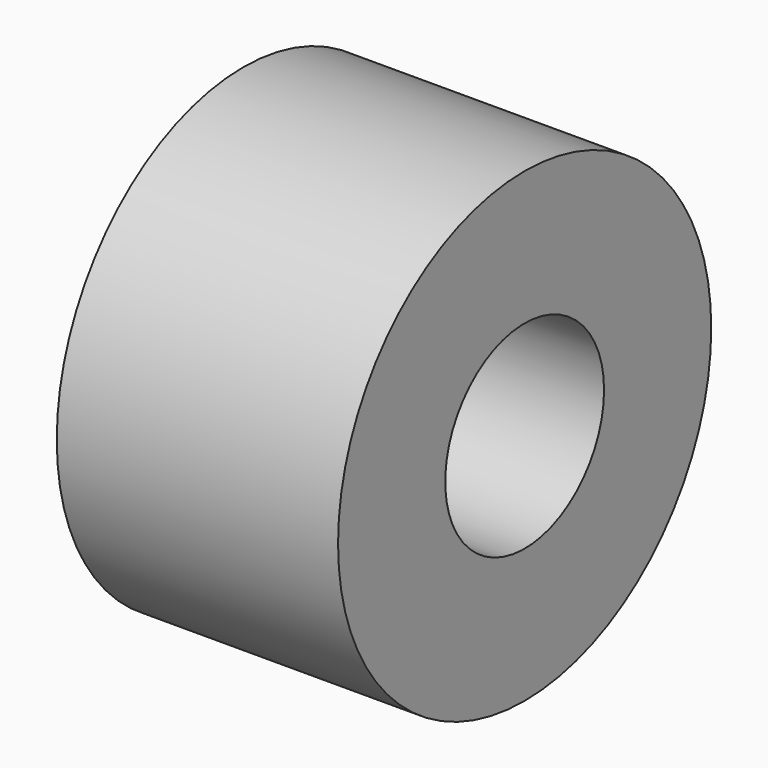
from build123d import *

# Parameters (mm, degrees)
F0_W = 179.9747645855
F0_H = 149.2310613394
F4_D = 127


with BuildPart() as f1:
    # F0 (on Front) → F1 (revolve)
    with BuildSketch(Plane.XZ):
        with Locations((89.9873822927, 74.6155306697)):
            Rectangle(F0_W, F0_H)
    revolve(axis=Axis((89.9873822927, 0, 0), (-1, 0, 0)))

    # F4 (through all)
    with Locations(Plane(origin=(0, 0, 0), x_dir=(0, -1, 0), z_dir=(-1, 0, 0))):
        with Locations((0, 0)):
            Hole(F4_D / 2)


solid = f1.part
